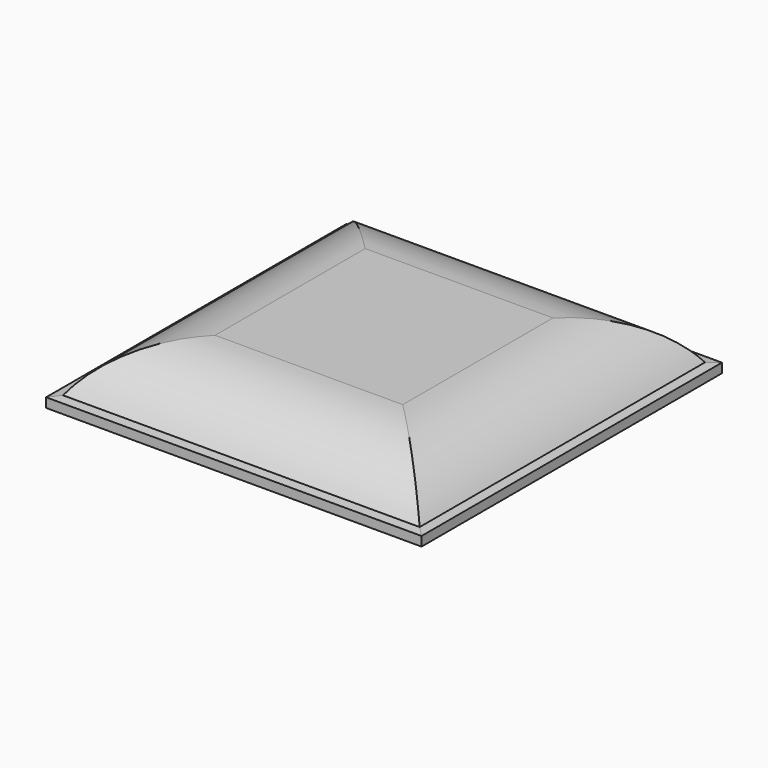
from build123d import *

# Parameters (mm, degrees)
SKETCH_W           = 20
SKETCH_H           = 20
PAD_DEPTH          = 3
POCKET_DEPTH       = 66.886851
POCKET_DEPTH_BACK  = 66.886851
POLARPATTERN_COUNT = 4


with BuildPart() as part:
    # Sketch → Pad (new body)
    with BuildSketch(Plane.XY):
        Rectangle(SKETCH_W, SKETCH_H)
    extrude(amount=PAD_DEPTH)

    # Sketch001 → Pocket (cut, two sides)
    with BuildSketch(Plane.XZ) as pocket_sk:
        with BuildLine():
            Line((10, 0.5), (9.5, 0.552552))
            ThreePointArc((9.5, 0.552552), (7.56125, 2.348555), (5, 3))
            Line((5, 3), (10, 3))
            Line((10, 3), (10, 0.5))
        make_face()
    pocket = extrude(amount=-POCKET_DEPTH, mode=Mode.SUBTRACT) + extrude(pocket_sk.sketch, amount=POCKET_DEPTH_BACK, mode=Mode.SUBTRACT)

    # PolarPattern: Pocket ×4 about axis
    polarpattern_axis = Axis((0, 0, 0), (0, 0, 1))
    for i in range(1, POLARPATTERN_COUNT):
        add(pocket.rotate(polarpattern_axis, i * 360 / POLARPATTERN_COUNT), mode=Mode.SUBTRACT)


solid = part.part
